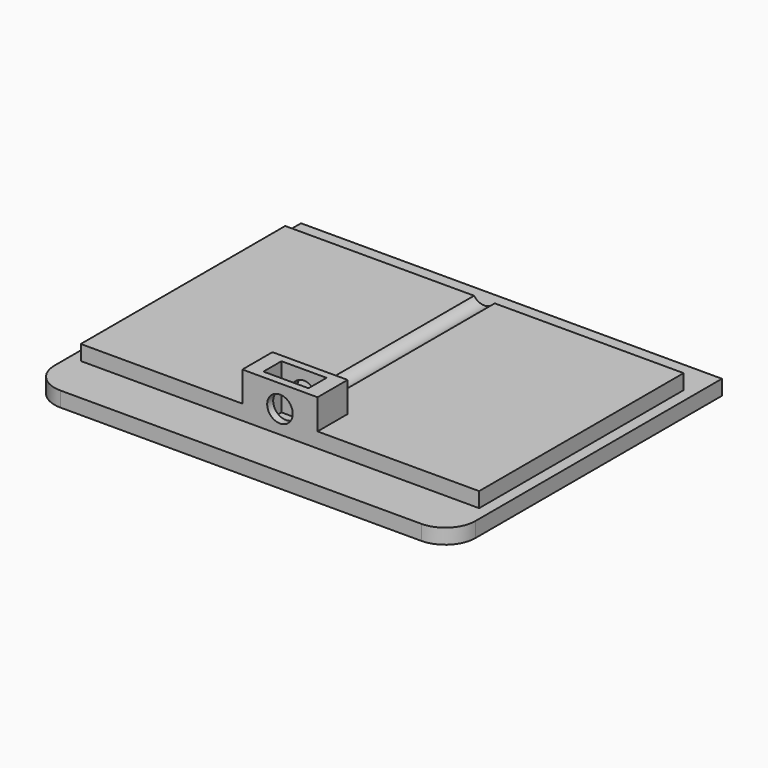
from build123d import *

# Parameters (mm, degrees)
SKETCH_W        = 56
SKETCH_H        = 45
PAD_DEPTH       = 1
SKETCH001_W     = 53
SKETCH001_H     = 34
PAD001_DEPTH    = 2
SKETCH002_W     = 10
SKETCH002_H     = 5
PAD002_DEPTH    = 4
SKETCH003_R     = 1.7
POCKET_DEPTH    = 38.501
SKETCH004_W     = 6
SKETCH004_H     = 3
POCKET001_DEPTH = 6
FILLET_R        = 4


with BuildPart() as part:
    # Sketch → Pad (new body, symmetric)
    with BuildSketch(Plane.XY):
        with Locations((28, 22.5)):
            Rectangle(SKETCH_W, SKETCH_H)
    extrude(amount=PAD_DEPTH, both=True)

    # Sketch001 (on Face6 of Pad) → Pad001 (join)
    with BuildSketch(Plane.XY.offset(1)):
        with Locations((28, 23.5)):
            Rectangle(SKETCH001_W, SKETCH001_H)
    extrude(amount=PAD001_DEPTH)

    # Sketch002 (on Face11 of Pad001) → Pad002 (join)
    with BuildSketch(Plane.XY.offset(3)):
        with Locations((28, 9)):
            Rectangle(SKETCH002_W, SKETCH002_H)
    extrude(amount=PAD002_DEPTH)

    # Sketch003 (on Face12 of Pad002) → Pocket (cut, through all)
    with BuildSketch(Plane.XZ.offset(-6.5)):
        with Locations((28, 4)):
            Circle(SKETCH003_R)
    extrude(amount=-POCKET_DEPTH, mode=Mode.SUBTRACT)

    # Sketch004 → Pocket001 (cut)
    with BuildSketch(Plane.XY.offset(7)):
        with Locations((28, 9)):
            Rectangle(SKETCH004_W, SKETCH004_H)
    extrude(amount=-POCKET001_DEPTH, mode=Mode.SUBTRACT)

    # Fillet
    fillet_edges = [part.edges().sort_by_distance(p)[0] for p in [
        (0, 0, 0),
        (56, 0, 0),
    ]]
    fillet(fillet_edges, radius=FILLET_R)


solid = part.part
